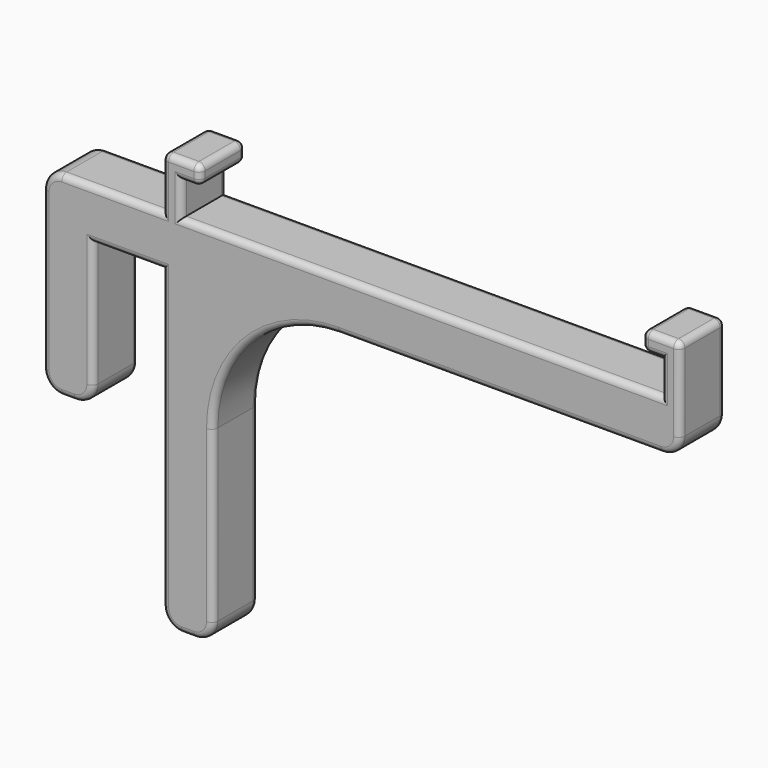
from build123d import *

# Parameters (mm, degrees)
PAD_DEPTH = 9
FILLET_R  = 1


with BuildPart() as part:
    # Sketch → Pad (new body)
    with BuildSketch(Plane.XZ):
        with BuildLine():
            Line((0, -28), (0, -3))
            ThreePointArc((3, 0), (0.87868, -0.87868), (0, -3))
            Line((3, 0), (19, 0))
            Line((19, 0), (19, 8.3))
            Line((19, 8.3), (25, 8.3))
            Line((25, 8.3), (25, 5.3))
            Line((25, 5.3), (22, 5.3))
            Line((22, 5.3), (22, 0))
            Line((22, 0), (98.2, 0))
            Line((98.2, 0), (98.2, 5.3))
            Line((98.2, 5.3), (95.2, 5.3))
            Line((95.2, 5.3), (95.2, 8.3))
            Line((95.2, 8.3), (101.2, 8.3))
            Line((101.2, 8.3), (101.2, -5))
            ThreePointArc((98.2, -8), (100.32132, -7.12132), (101.2, -5))
            Line((98.2, -8), (47, -8))
            ThreePointArc((47, -8), (32.857864, -13.857864), (27, -28))
            Line((27, -28), (27, -55))
            ThreePointArc((24, -58), (26.12132, -57.12132), (27, -55))
            Line((24, -58), (22, -58))
            ThreePointArc((19, -55), (19.87868, -57.12132), (22, -58))
            Line((19, -55), (19, -8))
            Line((19, -8), (8, -8))
            Line((8, -8), (8, -28))
            ThreePointArc((5, -31), (7.12132, -30.12132), (8, -28))
            Line((5, -31), (3, -31))
            ThreePointArc((0, -28), (0.87868, -30.12132), (3, -31))
        make_face()
    extrude(amount=PAD_DEPTH)

    # Fillet
    fillet_edges = [part.edges().sort_by_distance(p)[0] for p in [
        (4, -9, -31),
        (0.87868, -9, -30.12132),
        (0, -9, -15.5),
        (0.87868, -9, -0.87868),
        (11, -9, 0),
        (19, -9, 4.15),
        (22, -9, 8.3),
        (25, -9, 6.8),
        (23.5, -9, 5.3),
        (22, -9, 2.65),
        (60.1, -9, 0),
        (98.2, -9, 2.65),
        (96.7, -9, 5.3),
        (95.2, -9, 6.8),
        (98.2, -9, 8.3),
        (101.2, -9, 1.65),
        (100.32132, -9, -7.12132),
        (72.6, -9, -8),
        (32.857864, -9, -13.857864),
        (27, -9, -41.5),
        (26.12132, -9, -57.12132),
        (23, -9, -58),
        (19.87868, -9, -57.12132),
        (19, -9, -31.5),
        (13.5, -9, -8),
        (8, -9, -18),
        (7.12132, -9, -30.12132),
        (4, 0, -31),
        (0.87868, 0, -30.12132),
        (0, 0, -15.5),
        (0.87868, 0, -0.87868),
        (11, 0, 0),
        (19, 0, 4.15),
        (22, 0, 8.3),
        (25, 0, 6.8),
        (23.5, 0, 5.3),
        (22, 0, 2.65),
        (60.1, 0, 0),
        (98.2, 0, 2.65),
        (96.7, 0, 5.3),
        (95.2, 0, 6.8),
        (98.2, 0, 8.3),
        (101.2, 0, 1.65),
        (100.32132, 0, -7.12132),
        (72.6, 0, -8),
        (32.857864, 0, -13.857864),
        (27, 0, -41.5),
        (26.12132, 0, -57.12132),
        (23, 0, -58),
        (19.87868, 0, -57.12132),
        (19, 0, -31.5),
        (13.5, 0, -8),
        (8, 0, -18),
        (7.12132, 0, -30.12132),
        (25, -4.5, 8.3),
        (25, -4.5, 5.3),
        (19, -4.5, 8.3),
        (101.2, -4.5, 8.3),
        (95.2, -4.5, 8.3),
        (95.2, -4.5, 5.3),
    ]]
    fillet(fillet_edges, radius=FILLET_R)


solid = part.part
